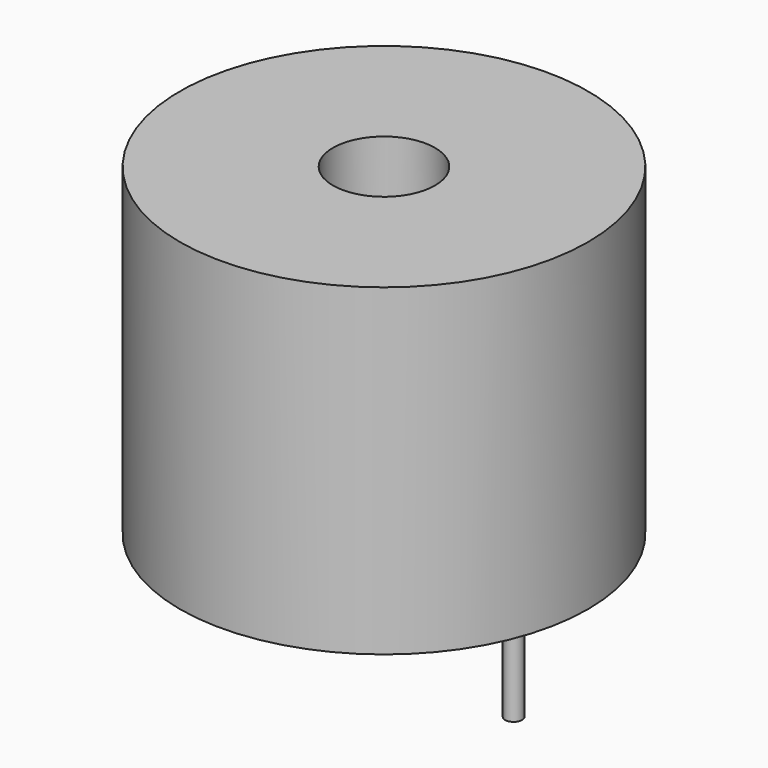
from build123d import *

# Parameters (mm, degrees)
SKETCH_R     = 6
PAD_DEPTH    = 9.5
SKETCH001_R  = 1.5
POCKET_DEPTH = 2
SKETCH002_R  = 0.25
PAD001_DEPTH = 3.5


with BuildPart() as part:
    # Sketch → Pad (new body)
    with BuildSketch(Plane.XY):
        Circle(SKETCH_R)
    extrude(amount=PAD_DEPTH)

    # Sketch001 (on Face3 of Pad) → Pocket (cut)
    with BuildSketch(Plane.XY.offset(9.5)):
        Circle(SKETCH001_R)
    extrude(amount=-POCKET_DEPTH, mode=Mode.SUBTRACT)

    # Sketch002 (on Face2 of Pocket) → Pad001 (join)
    with BuildSketch(Plane(origin=(0, 0, 0), x_dir=(1, 0, 0), z_dir=(0, 0, -1))):
        with Locations((-3.81, 0)):
            Circle(SKETCH002_R)
        with Locations((3.81, 0)):
            Circle(SKETCH002_R)
    extrude(amount=PAD001_DEPTH)


solid = part.part
